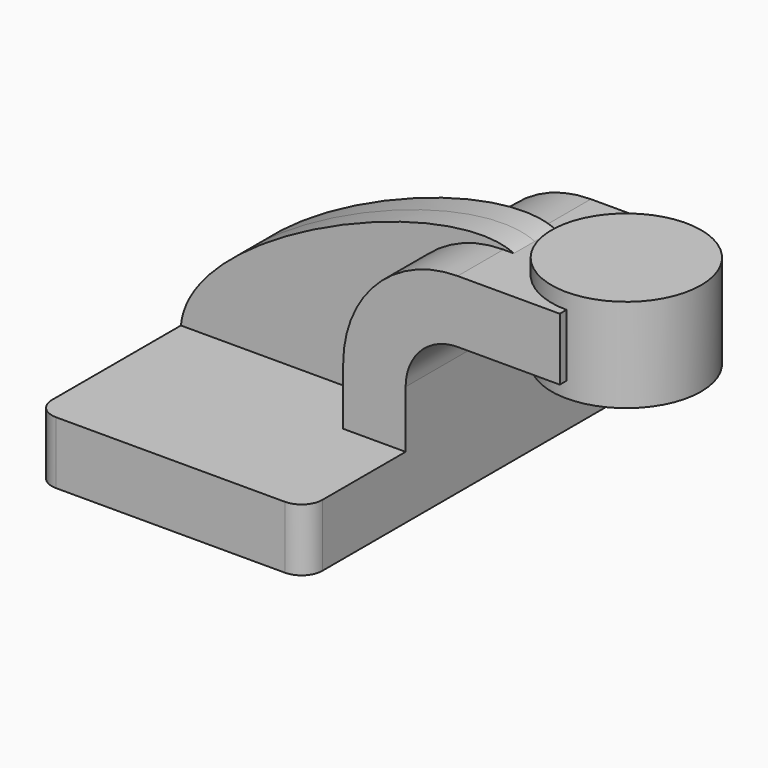
from build123d import *

# Parameters (mm, degrees)
F1_DEPTH = 63.5
F0_W     = 27.987413
F0_H     = 19.05
F2_DEPTH = 25.4
F3_DEPTH = 7.9375
F5_R     = 6.35


with BuildPart() as f1:
    # F0 (on Front) → F1 (new body, symmetric)
    with BuildSketch(Plane.XZ):
        Polygon((22.225, 9.525), (-41.275, 9.525), (-41.275, -9.525), (41.275, -9.525), (41.275, 9.525), align=None)
    extrude(amount=F1_DEPTH, both=True)

    # F0 (on Front) → F2 (join, symmetric)
    with BuildSketch(Plane.XZ):
        with BuildLine():
            Line((22.225, 27.0002), (22.225, 9.525))
            Line((22.225, 9.525), (41.275, 9.525))
            Line((41.275, 9.525), (41.275, 27.0002))
            ThreePointArc((41.275, 27.0002), (45.92468, 38.22552), (57.15, 42.8752))
            Line((57.15, 42.8752), (60.325, 42.8752))
            Line((60.325, 42.8752), (60.325, 61.9252))
            Line((60.325, 61.9252), (57.15, 61.9252))
            ThreePointArc((57.15, 61.9252), (32.454296, 51.695904), (22.225, 27.0002))
        make_face()
        with Locations((74.318706, 52.4002)):
            Rectangle(F0_W, F0_H)
    extrude(amount=F2_DEPTH, both=True)

    # F0 (on Front) → F3 (join, symmetric)
    with BuildSketch(Plane.XZ):
        with BuildLine():
            add(Edge.make_bspline(
                [(-41.275, 9.525), (-38.495697, 38.790718), (40.304676, 71.696699), (60.325, 61.9252)],
                knots=[0, 0, 0, 0, 114.316845, 114.316845, 114.316845, 114.316845], degree=3))
            Line((-41.275, 9.525), (22.225, 9.525))
            Line((22.225, 9.525), (22.225, 27.0002))
            ThreePointArc((22.225, 27.0002), (32.454296, 51.695904), (57.15, 61.9252))
            Line((57.15, 61.9252), (60.325, 61.9252))
        make_face()
    extrude(amount=F3_DEPTH, both=True)

    # F0 (on Front) → F4 (revolve)
    with BuildSketch(Plane.XZ):
        Polygon((88.312413, 66.675), (88.312413, 61.9252), (88.312413, 42.8752), (88.312413, 38.1), (111.125, 38.1), (111.125, 66.675), align=None)
    revolve(axis=Axis((88.312413, 0, 54.7751), (0, 0, 1)))

    # F5
    f5_edges = [f1.edges().sort_by_distance(p)[0] for p in [
        (-41.275, -63.5, 0),
        (41.275, -63.5, 0),
        (-41.275, 63.5, 0),
        (41.275, 63.5, 0),
    ]]
    fillet(f5_edges, radius=F5_R)


solid = f1.part
